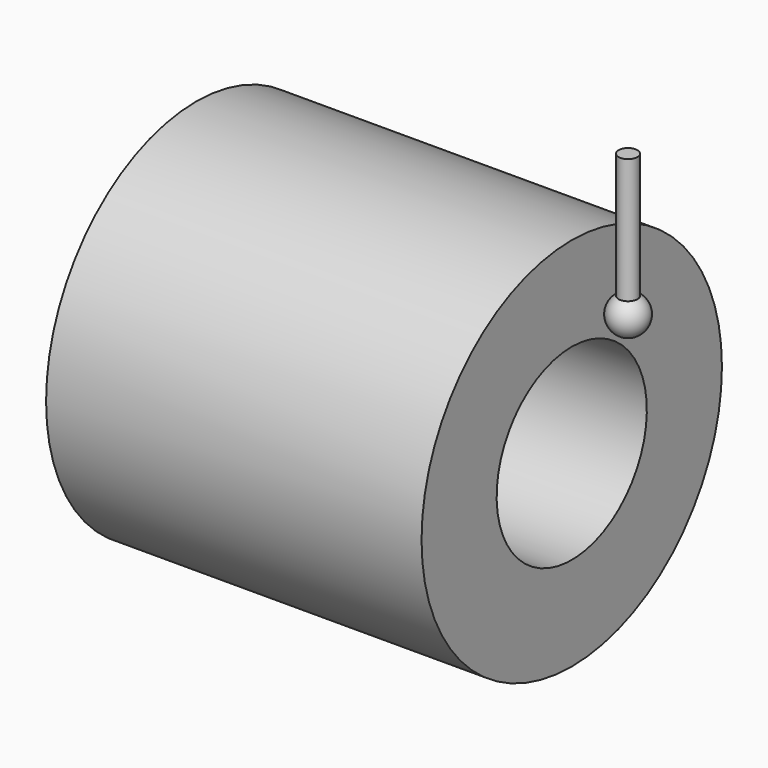
from build123d import *


with BuildPart() as f1:
    # F0 (on Front) → F1 (revolve)
    with BuildSketch(Plane.XZ):
        Polygon((0, 30), (-60, 30), (-60, 0), (-30, 0), (-30, 15), (0, 15), align=None)
    revolve(axis=Axis((-30, 0, 0), (1, 0, 0)))


with BuildPart() as f3:
    # F2 (on Front) → F3 (revolve)
    with BuildSketch(Plane.XZ):
        with BuildLine():
            Line((9, 19.5), (9, 25.5))
            ThreePointArc((9, 25.5), (6, 22.5), (9, 19.5))
        make_face()
    revolve(axis=Axis((9, 0, 29.365131), (0, 0, 1)))


with BuildPart() as f5:
    # F4 (on Front) → F5 (revolve)
    with BuildSketch(Plane.XZ):
        with BuildLine():
            ThreePointArc((7.5, 25.098076), (8.223543, 25.397777), (9, 25.5))
            Line((9, 25.5), (9, 45.098076))
            Line((9, 45.098076), (7.5, 45.098076))
            Line((7.5, 45.098076), (7.5, 25.098076))
        make_face()
    revolve(axis=Axis((9, 0, 24.648131), (0, 0, 1)))


solid = Compound([f1.part, f3.part, f5.part])
